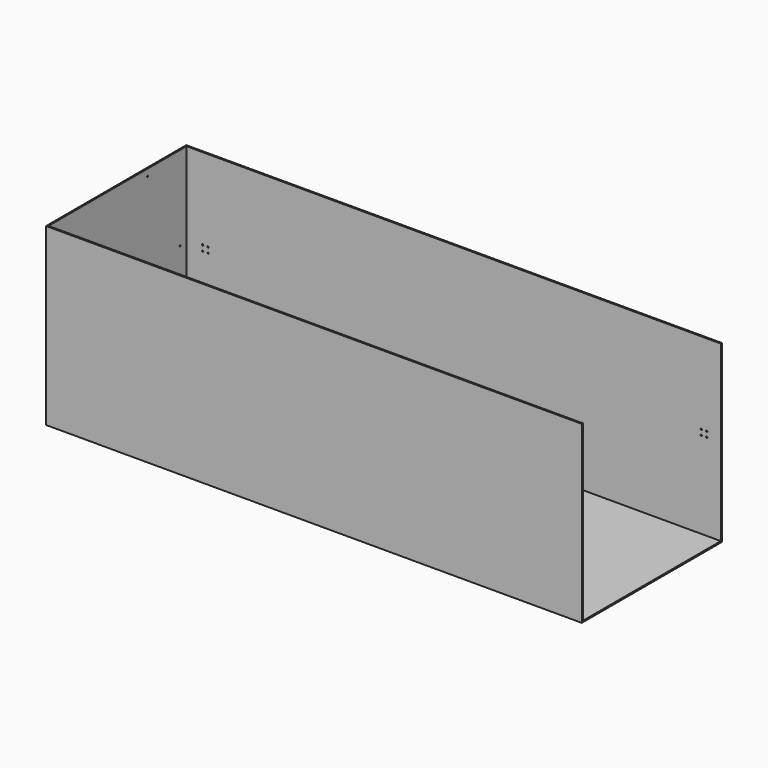
from build123d import *

# Parameters (mm, degrees)
F0_W     = 4000
F0_H     = 1300
F1_DEPTH = 650
F2_T     = -10
F4_D     = 10
F5_D     = 10
F7_D     = 10
F7_DEPTH = 10.001
F8_D     = 10
F8_DEPTH = 10.001
F9_DEPTH = 25


with BuildPart() as f1:
    # F0 (on Front) → F1 (new body, symmetric)
    with BuildSketch(Plane.XZ):
        Rectangle(F0_W, F0_H)
    extrude(amount=F1_DEPTH, both=True)

    # F2
    f2_openings = [f1.faces().sort_by_distance(p)[0] for p in [
        (0, 0, 650),
    ]]
    offset(amount=F2_T, openings=f2_openings)

    # F4 (through all)
    with Locations(Plane(origin=(-2000, 0, 0), x_dir=(0, -1, 0), z_dir=(-1, 0, 0))):
        with Locations((-580, 24)):
            Hole(F4_D / 2)

    # F5 (through all)
    with Locations(Plane(origin=(-2000, 0, 0), x_dir=(0, -1, 0), z_dir=(-1, 0, 0))):
        with Locations((-280, 600)):
            Hole(F5_D / 2)

    # F7 (through all, one way)
    with BuildSketch(Plane.XZ.offset(-640)):
        with Locations((-1870, 44), (-1830, 44), (-1830, 4), (-1870, 4)):
            Circle(F7_D / 2)
    extrude(amount=-F7_DEPTH, mode=Mode.SUBTRACT)

    # F8 (through all, one way)
    with BuildSketch(Plane.XZ.offset(-640)):
        with Locations((1830, 44), (1870, 44), (1870, 4), (1830, 4)):
            Circle(F8_D / 2)
    extrude(amount=-F8_DEPTH, mode=Mode.SUBTRACT)

    # F9 (cut): a face of the model
    f9_faces = [f1.faces().sort_by_distance(p)[0] for p in [
        (2000, -0.0399707223, -0.0290020124),
    ]]
    extrude(f9_faces, amount=-F9_DEPTH, mode=Mode.SUBTRACT)


solid = f1.part
